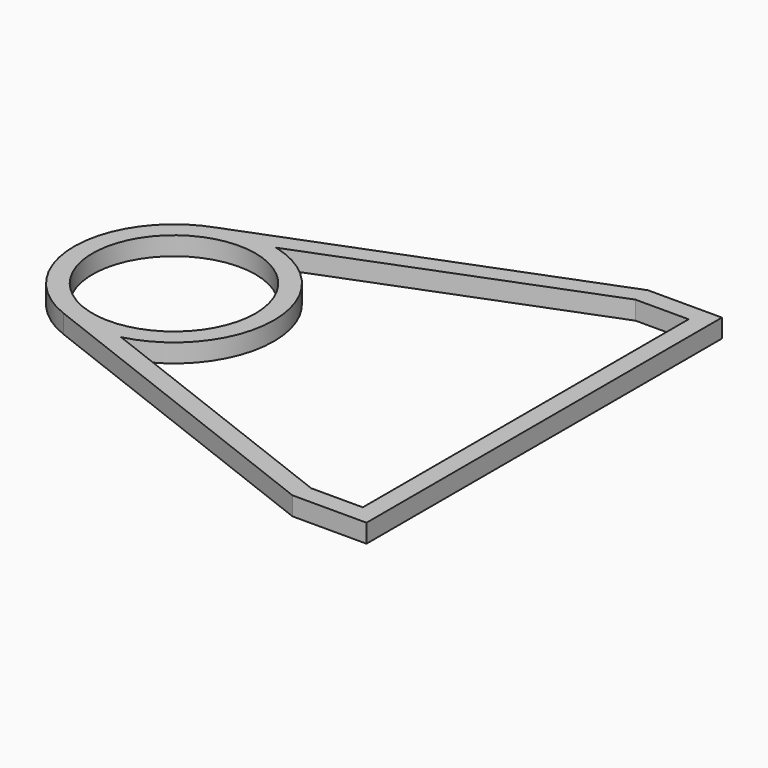
from build123d import *

# Parameters (mm, degrees)
F0_W     = 6.35
F0_H     = 6.35
F0_H_2   = 69.85
F1_DEPTH = 6.35
F2_R     = 27.94
F3_DEPTH = 25.4
F5_DEPTH = 25.4


with BuildPart() as f1:
    # F0 (on Top) → F1 (new body)
    with BuildSketch(Plane.XY):
        with Locations((66.649964, 62.1324)):
            Rectangle(F0_W, F0_H)
        with Locations((66.649964, 24.0324)):
            Rectangle(F0_W, F0_H_2)
        with BuildLine():
            Line((63.474964, 58.9574), (63.474964, 65.3074))
            Line((63.474964, 65.3074), (44.424964, 65.3074))
            Line((44.424964, 65.3074), (-68.375352, 21.516612))
            ThreePointArc((-68.375352, 21.516612), (-91.459051, -10.251982), (-69.578284, -42.860765))
            Line((-69.578284, -42.860765), (44.424964, -87.0926))
            Line((44.424964, -87.0926), (63.474964, -87.0926))
            Line((63.474964, -87.0926), (63.474964, -80.7426))
            Line((63.474964, -80.7426), (63.474964, -10.8926))
            Line((63.474964, -10.8926), (63.474964, 58.9574))
        make_face()
        with Locations((66.649964, -45.8176)):
            Rectangle(F0_W, F0_H_2)
        with Locations((66.649964, -83.9176)):
            Rectangle(F0_W, F0_H)
    extrude(amount=F1_DEPTH)

    # F2 (on face) → F3 (cut)
    with BuildSketch(Plane.XY.offset(6.35)):
        with Locations((-57.175036, -10.8926)):
            Circle(F2_R)
    extrude(amount=-F3_DEPTH, mode=Mode.SUBTRACT)

    # F4 (on Top) → F5 (cut)
    with BuildSketch(Plane.XY):
        with BuildLine():
            Line((63.474964, -80.7426), (63.474964, 58.9574))
            Line((63.474964, 58.9574), (45.235226, 58.9574))
            Line((45.235226, 58.9574), (-48.786443, 22.355491))
            ThreePointArc((-48.786443, 22.355491), (-22.885047, -10.86449), (-48.731942, -44.126894))
            Line((-48.731942, -44.126894), (45.783264, -80.7426))
            Line((45.783264, -80.7426), (63.474964, -80.7426))
        make_face()
    extrude(amount=F5_DEPTH, mode=Mode.SUBTRACT)


solid = f1.part
